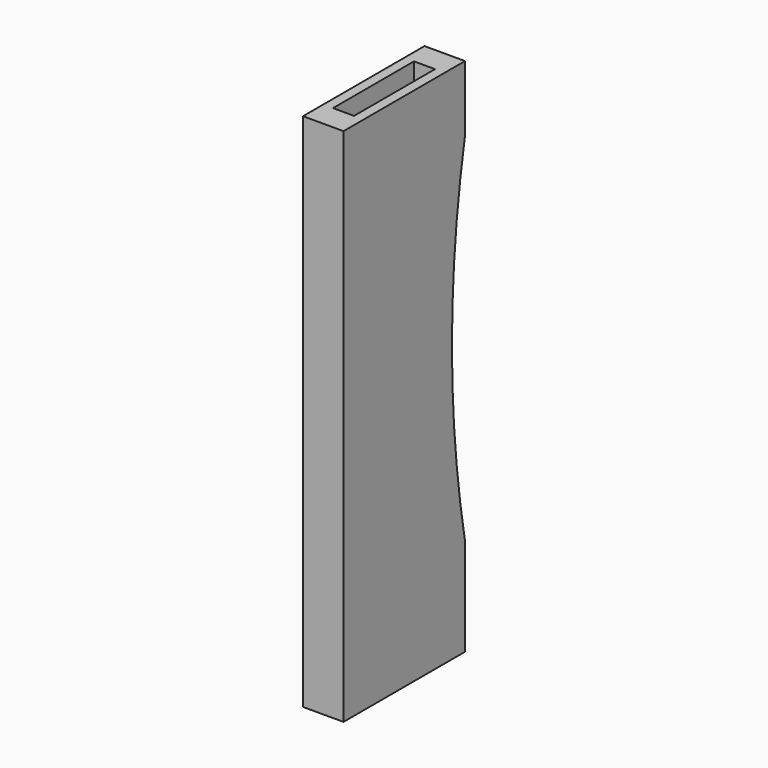
from build123d import *

# Parameters (mm, degrees)
F0_W     = 10.16
F0_H     = 130.5052
F1_DEPTH = 38.1
F5_DEPTH = 25.4
F3_W     = 5.2832
F3_H     = 25.4
F6_DEPTH = 152.4


with BuildPart() as f1:
    # F0 (on Front) → F1 (new body)
    with BuildSketch(Plane.XZ):
        with Locations((9.568245, -12.447174)):
            Rectangle(F0_W, F0_H)
    extrude(amount=F1_DEPTH)

    # F4 (on face) → F5 (cut)
    with BuildSketch(Plane(origin=(4.488245, 0, 0), x_dir=(0, -1, 0), z_dir=(-1, 0, 0))):
        with BuildLine():
            Line((0, 36.306467), (0, -53.210054))
            ThreePointArc((0, -53.210054), (4.081656, -8.451793), (0, 36.306467))
        make_face()
    extrude(amount=-F5_DEPTH, mode=Mode.SUBTRACT)

    # F3 (on face) → F6 (cut)
    with BuildSketch(Plane.XY.offset(52.805426)):
        with Locations((9.568245, -19.05)):
            Rectangle(F3_W, F3_H)
    extrude(amount=-F6_DEPTH, mode=Mode.SUBTRACT)


solid = f1.part
